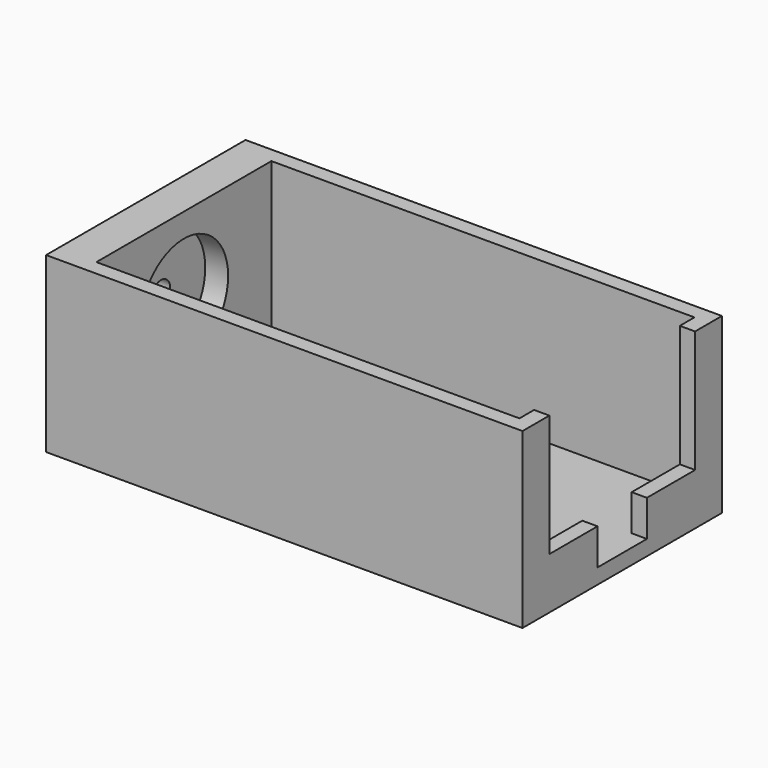
from build123d import *

# Parameters (mm, degrees)
SKETCH008_W     = 62.5
SKETCH008_H     = 32.7
PAD007_DEPTH    = 2
SKETCH009_W     = 55.5
SKETCH009_H     = 28.7
PAD008_DEPTH    = 20.75
SKETCH010_R     = 7.25
POCKET001_DEPTH = 3
SKETCH011_R     = 1.5
POCKET002_DEPTH = 2
SKETCH012_W     = 23.9
SKETCH012_H     = 16
POCKET003_DEPTH = 2
SKETCH017_W     = 8.1
SKETCH017_H     = 4.75
POCKET004_DEPTH = 40
SKETCH018_W     = 10
SKETCH018_H     = 25
POCKET005_DEPTH = 2


with BuildPart() as part:
    # Sketch008 → Pad007 (new body)
    with BuildSketch(Plane.XY):
        Rectangle(SKETCH008_W, SKETCH008_H)
    extrude(amount=PAD007_DEPTH)

    # Sketch009 (on Face6 of Pad007) → Pad008 (join)
    with BuildSketch(Plane.XY.offset(2)):
        Polygon((-31.25, 16.35), (-26.25, 16.35), (31.25, 16.35), (31.25, 14.35), (31.25, -14.35), (31.25, -16.35), (-26.25, -16.35), (-31.25, -16.35), align=None)
        with Locations((1.5, 0)):
            Rectangle(SKETCH009_W, SKETCH009_H, mode=Mode.SUBTRACT)
    extrude(amount=PAD008_DEPTH)

    # Sketch010 (on Face15 of Pad008) → Pocket001 (cut)
    with BuildSketch(Plane.YZ.offset(-26.25)):
        with Locations((0, 12.375)):
            Circle(SKETCH010_R)
    extrude(amount=-POCKET001_DEPTH, mode=Mode.SUBTRACT)

    # Sketch011 (on Face21 of Pocket001) → Pocket002 (cut)
    with BuildSketch(Plane.YZ.offset(-29.25)):
        with Locations((0, 12.375)):
            Circle(SKETCH011_R)
    extrude(amount=-POCKET002_DEPTH, mode=Mode.SUBTRACT)

    # Sketch012 (on Face10 of Pocket002) → Pocket003 (cut)
    with BuildSketch(Plane.YZ.offset(31.25)):
        with Locations((0, 14.75)):
            Rectangle(SKETCH012_W, SKETCH012_H)
    extrude(amount=-POCKET003_DEPTH, mode=Mode.SUBTRACT)

    # Sketch017 → Pocket004 (cut)
    with BuildSketch(Plane.YZ):
        with Locations((0, 4.375)):
            Rectangle(SKETCH017_W, SKETCH017_H)
    extrude(amount=POCKET004_DEPTH, mode=Mode.SUBTRACT)

    # Sketch018 (on Face19 of Pad008) → Pocket005 (cut)
    with BuildSketch(Plane.XY.offset(2)):
        with Locations((-21.25, 0)):
            Rectangle(SKETCH018_W, SKETCH018_H)
        with Locations((-6.25, 0)):
            Rectangle(SKETCH018_W, SKETCH018_H)
    extrude(amount=-POCKET005_DEPTH, mode=Mode.SUBTRACT)


solid = part.part
